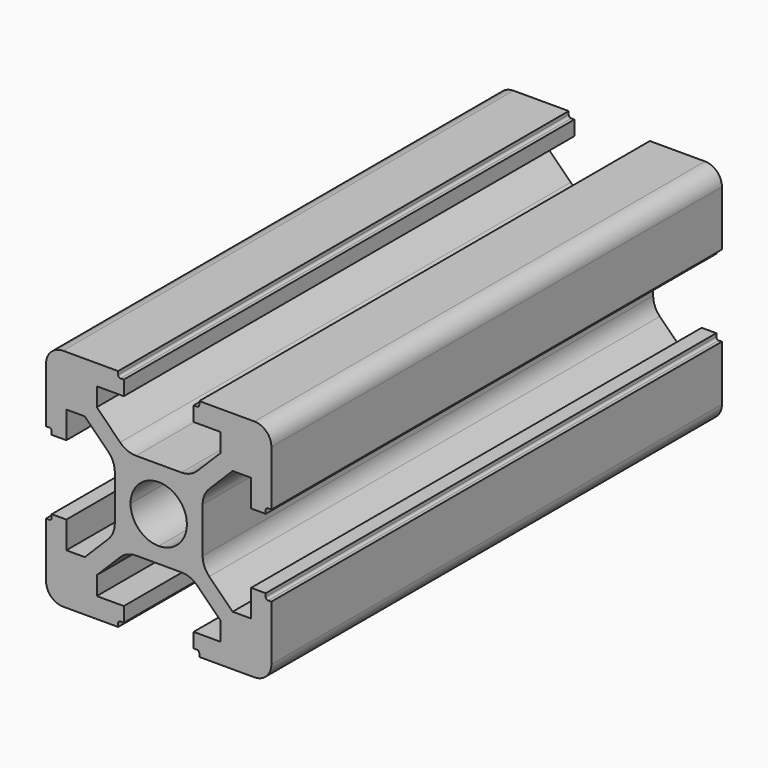
from build123d import *

# Parameters (mm, degrees)
F1_DEPTH      = 25
F1_DEPTH_BACK = 25
F3_COUNT      = 4


with BuildPart() as f1:
    # F0 (on Front) → F1 (new body, two sides)
    with BuildSketch(Plane.XZ) as f1_sk:
        with BuildLine():
            Line((-10, 8.5), (-10, 3.6))
            Line((-10, 3.6), (-9.7, 3.6))
            ThreePointArc((-9.7, 3.6), (-9.558579, 3.541421), (-9.5, 3.4))
            Line((-9.5, 3.4), (-9.5, 3.1))
            Line((-9.5, 3.1), (-8.2, 3.1))
            Line((-8.2, 3.1), (-8.2, 5.5))
            Line((-8.2, 5.5), (-6.56066, 5.5))
            Line((-6.56066, 5.5), (-4.485786, 3.425126))
            ThreePointArc((-4.485786, 3.425126), (-4.052241, 2.77628), (-3.9, 2.010913))
            Line((-3.9, 2.010913), (-3.9, 0))
            Line((-3.9, 0), (-2.5, 0))
            ThreePointArc((-2.5, 0), (-1.767767, 1.767767), (0, 2.5))
            Line((0, 2.5), (0, 3.9))
            Line((0, 3.9), (-2.010913, 3.9))
            ThreePointArc((-2.010913, 3.9), (-2.77628, 4.052241), (-3.425126, 4.485786))
            Line((-3.425126, 4.485786), (-5.5, 6.56066))
            Line((-5.5, 6.56066), (-5.5, 8.2))
            Line((-5.5, 8.2), (-3.1, 8.2))
            Line((-3.1, 8.2), (-3.1, 9.5))
            Line((-3.1, 9.5), (-3.4, 9.5))
            ThreePointArc((-3.4, 9.5), (-3.541421, 9.558579), (-3.6, 9.7))
            Line((-3.6, 9.7), (-3.6, 10))
            Line((-3.6, 10), (-8.5, 10))
            ThreePointArc((-8.5, 10), (-9.56066, 9.56066), (-10, 8.5))
        make_face()
    extrude(amount=F1_DEPTH)
    extrude(f1_sk.sketch, amount=-F1_DEPTH_BACK)

    # F3: F1 ×4 about axis
    f3_axis = Axis((0, -12.5, 0), (0, -1, 0))


with BuildPart() as f1_1:
    add(f1.part)
    for i in range(1, F3_COUNT):
        add(f1.part.rotate(f3_axis, i * 360 / F3_COUNT))


solid = f1_1.part
